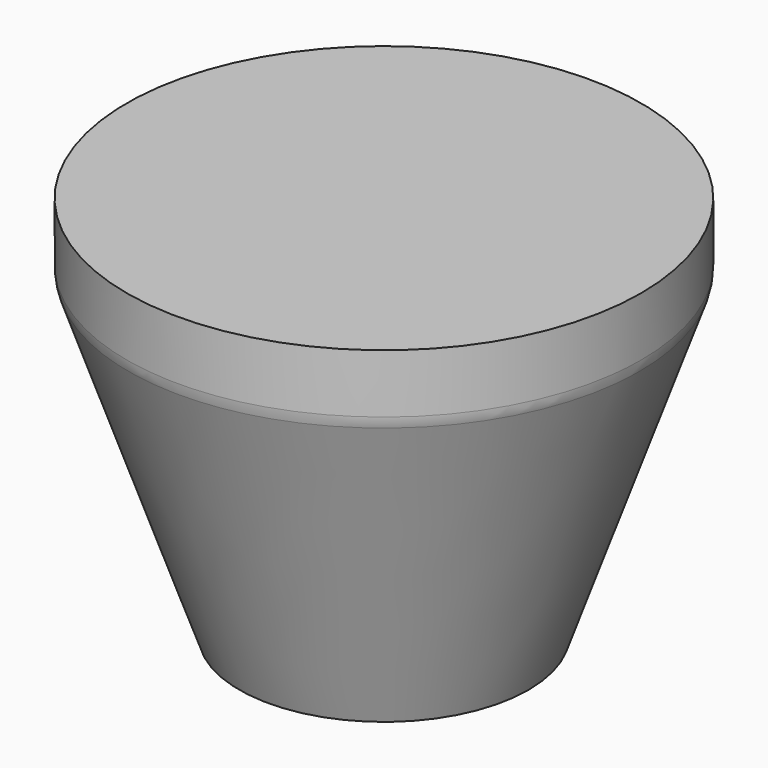
from build123d import *

# Parameters (mm, degrees)
F2_R     = 3
F3_DEPTH = 5
F4_R     = 10


with BuildPart() as f1:
    # F0 (on Front) → F1 (revolve)
    with BuildSketch(Plane.XZ):
        Polygon((0, 120), (0, 0), (45, 0), (80, 100), (80, 120), align=None)
    revolve(axis=Axis((0, 0, 170.90906), (0, 0, 1)))

    # F2 (on face) → F3 (cut)
    with BuildSketch(Plane(origin=(0, 0, 0), x_dir=(1, 0, 0), z_dir=(0, 0, -1))):
        Circle(F2_R)
    extrude(amount=-F3_DEPTH, mode=Mode.SUBTRACT)

    # F4
    f4_edges = [f1.edges().sort_by_distance(p)[0] for p in [
        (-80, 0, 100),
    ]]
    fillet(f4_edges, radius=F4_R)


solid = f1.part
